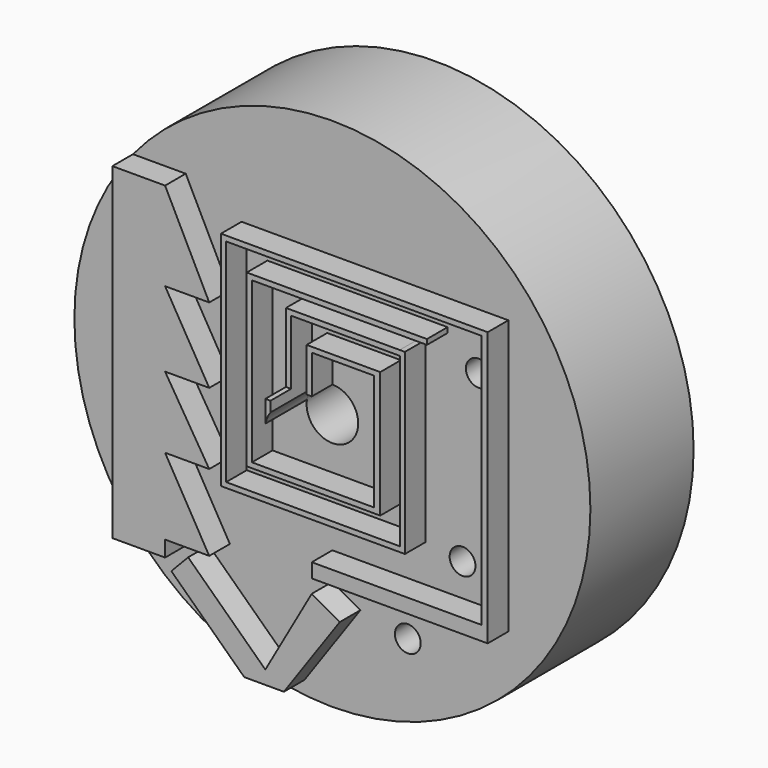
from build123d import *

# Parameters (mm, degrees)
F0_R      = 50
F1_DEPTH  = 25
F3_D      = 10
F5_DEPTH  = 5
F7_DEPTH  = 10
F9_DEPTH  = 5
F11_DEPTH = 5
F13_D     = 5
F15_DEPTH = 5
F17_DEPTH = 5
F19_DEPTH = 5
F21_D     = 5


with BuildPart() as f1:
    # F0 (on Front) → F1 (new body)
    with BuildSketch(Plane.XZ):
        Circle(F0_R)
    extrude(amount=F1_DEPTH)

    # F3 (through all)
    with Locations(Plane.XZ.offset(25)):
        with Locations((0, 0)):
            Hole(F3_D / 2)

    # F4 (on face) → F5 (join)
    with BuildSketch(Plane.XZ.offset(25)):
        Polygon((-1, 5), (0, 5), (0, 12.4759720638), (12.0539031955, 12.4759720638), (12.0539031955, 0), (12.0539031955, -10.0090857595), (0, -10.0090857595), (-11.5974724069, -10.0090857595), (-11.5974724069, 0), (-11.5974724069, 12.4759720638), (-11.5974724069, 21.0507828742), (22.3206661865, 21.0507828742), (22.3206661865, 22.0507828742), (-11.5974724069, 22.0507828742), (-12.5974724069, 22.0507828742), (-12.5974724069, 5.5559086613), (-12.5974724069, -11.0117533952), (13.2704021633, -11.0090857595), (13.2704021633, -10.0090857595), (13.2704021633, 12.4759720638), (13.2704021633, 13.4759720638), (0, 13.4759720638), (-1, 13.4759720638), (-1, 12.4759720638), align=None)
        Polygon((-16.5974722952, 12.4759720638), (-16.5974722952, 26.0507827625), (22.3206661865, 26.0507827625), (22.3206661865, 27.0507827625), (-16.5974722952, 27.0507827625), (-17.5974722952, 27.0507827625), (-17.5974722952, 26.1644367129), (-17.5974722952, -14.8946940899), (-17.5974722952, -15.0090856478), (-17.5974722952, -16.0090856478), (18.0539030838, -16.0090856478), (18.0539030838, -15.0090856478), (18.0539030838, 18.475971811), (17.0539030838, 18.475971811), (-4.9999998818, 18.4759719521), (-4.9999998882, 17.4759719521), (-4.9999998882, 5), (-3.9999998882, 5), (-3.9999998882, 17.4759719521), (17.0539030838, 17.4759719521), (17.0539030838, 0), (17.0539030838, -15.0090856478), (-0.0038306937, -15.0090856478), (-16.5974722952, -15.0090856478), (-16.5974722952, 0), align=None)
    extrude(amount=F5_DEPTH)

    # F6 (on face) → F7 (join)
    with BuildSketch(Plane.XZ.offset(25)):
        with BuildLine():
            Line((-3.9999998882, 5), (-4.9999998882, 5))
            Line((-4.9999998882, 5), (-4.9999999831, 0.7558615648))
            Line((-4.9999999831, 0.7558615648), (-4.9053492841, 0.9682708303))
            ThreePointArc((-4.9053492841, 0.9682708303), (-4.5670879099, 2.0351186755), (-3.9999998882, 3.000000149))
            Line((-3.9999998882, 3.000000149), (-3.9999998882, 5))
        make_face()
    extrude(amount=F7_DEPTH)

    # F8 (on face) → F9 (join)
    with BuildSketch(Plane.XZ.offset(25)):
        Polygon((25.6022717804, 27.0507827625), (22.3206661865, 27.0507827625), (22.3206661865, 26.0507827625), (25.6022717804, 26.0507827625), (27.1489042789, 26.0507827625), (28.8951024413, 26.0507827625), (32.8879207373, 26.0507827625), (32.8879207373, 18.475971811), (32.8879207373, 9.354759939), (32.8879207373, 5.5606500246), (32.8879207373, 0), (32.8879207373, -5.7792388834), (32.8879207373, -17.5537280738), (32.8879207373, -21.467147395), (32.8879207373, -23.2733413577), (34.0968593955, -23.2733413577), (34.0968593955, -16.0090856478), (34.0968593955, 0), (34.0968593955, 6.9746486843), (34.0968593955, 11.9728827849), (34.0968593955, 18.475971811), (34.0968593955, 27.0507827625), (32.8879207373, 27.0507827625), (28.4710265696, 27.0507827625), align=None)
    extrude(amount=F9_DEPTH)

    # F10 (on face) → F11 (join)
    with BuildSketch(Plane.XZ.offset(25)):
        Polygon((34.0968593955, -23.2733413577), (32.8879207373, -23.2733413577), (0, -23.2733413577), (0, -26.040263474), (34.0968593955, -26.040263474), align=None)
    extrude(amount=F11_DEPTH)

    # F13 (through all)
    with Locations(Plane.XZ.offset(25)):
        with Locations((25.2206400037, -16.9608648866), (28.3664222807, 16.152607277)):
            Hole(F13_D / 2)

    # F14 (on face) → F15 (join)
    with BuildSketch(Plane.XZ.offset(25)):
        Polygon((-28.4231826663, 31.7307532181), (-38.6414194901, 31.7307532181), (-38.6414194901, -31.7307532181), (-28.4231826663, -31.7307532181), (-28.4231826663, -31.0340896249), align=None)
    extrude(amount=F15_DEPTH)

    # F16 (on face) → F17 (join)
    with BuildSketch(Plane.XZ.offset(25)):
        Polygon((-19.8692139238, -28.657739982), (-28.4231826663, -13.8425510377), (-28.4231826663, -28.657739982), align=None)
        Polygon((-19.8692139238, -13.8425510377), (-28.4231826663, 0), (-28.4231826663, -13.8425510377), align=None)
        Polygon((-19.8692139238, 0), (-28.4231826663, 14.5734706894), (-28.4231826663, 0), align=None)
        Polygon((-19.8692139238, 14.5734706894), (-28.4231826663, 31.7307532181), (-28.4231826663, 14.5734706894), align=None)
    extrude(amount=F17_DEPTH)

    # F18 (on face) → F19 (join)
    with BuildSketch(Plane.XZ.offset(25)):
        Polygon((-23.9576643267, -30.233348331), (-27.21523121, -33.645581454), (-13.0854109302, -47.1349395812), (-8.995237881, -44.5175730967), align=None)
        Polygon((-8.995237881, -44.5175730967), (-13.0854109302, -47.1349395812), (-5.403298419, -47.1349395812), (5.4181421023, -31.7307532181), (0, -28.657739982), align=None)
    extrude(amount=F19_DEPTH)

    # F21 (through all)
    with Locations(Plane.XZ.offset(25)):
        with Locations((14.6169317886, -33.61049667)):
            Hole(F21_D / 2)


solid = f1.part
